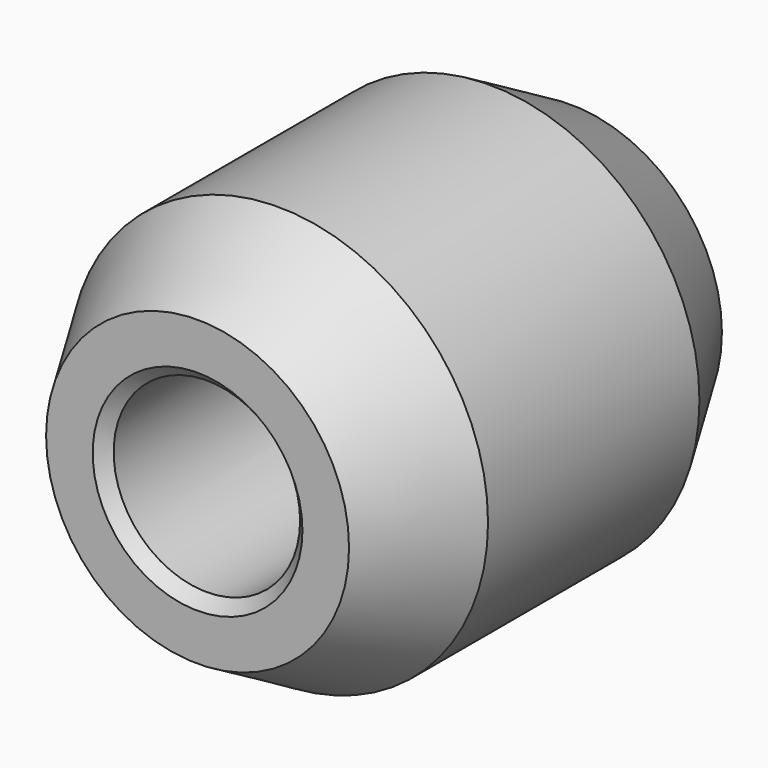
from build123d import *

# Parameters (mm, degrees)
F0_R     = 18
F0_R_2   = 8
F1_DEPTH = 40
F2_R     = 5
F3_DEPTH = 25
F5_R     = 7.5
F6_DEPTH = 2
F7_SIZE  = 1
F8_SIZE2 = 8.660254
F8_SIZE  = 5


with BuildPart() as f1:
    # F0 (on Front) → F1 (new body)
    with BuildSketch(Plane.XZ):
        Circle(F0_R)
        Circle(F0_R_2, mode=Mode.SUBTRACT)
    extrude(amount=F1_DEPTH)

    # F2 (on Right) → F3 (cut)
    with BuildSketch(Plane.YZ):
        with Locations((-20, 0)):
            Circle(F2_R)
    extrude(amount=-F3_DEPTH, mode=Mode.SUBTRACT)

    # F5 (on offset) → F6 (cut)
    with BuildSketch(Plane.YZ.offset(-18)):
        with Locations((-20, 0)):
            Circle(F5_R)
    extrude(amount=F6_DEPTH, mode=Mode.SUBTRACT)

    # F7
    f7_edges = [f1.edges().sort_by_distance(p)[0] for p in [
        (-8, -40, 0),
        (-8, 0, 0),
    ]]
    chamfer(f7_edges, length=F7_SIZE)

    # F8
    f8_edges = [f1.edges().sort_by_distance(p)[0] for p in [
        (-18, -40, 0),
        (-18, 0, 0),
    ]]
    chamfer(f8_edges, length=F8_SIZE, length2=F8_SIZE2)


solid = f1.part
